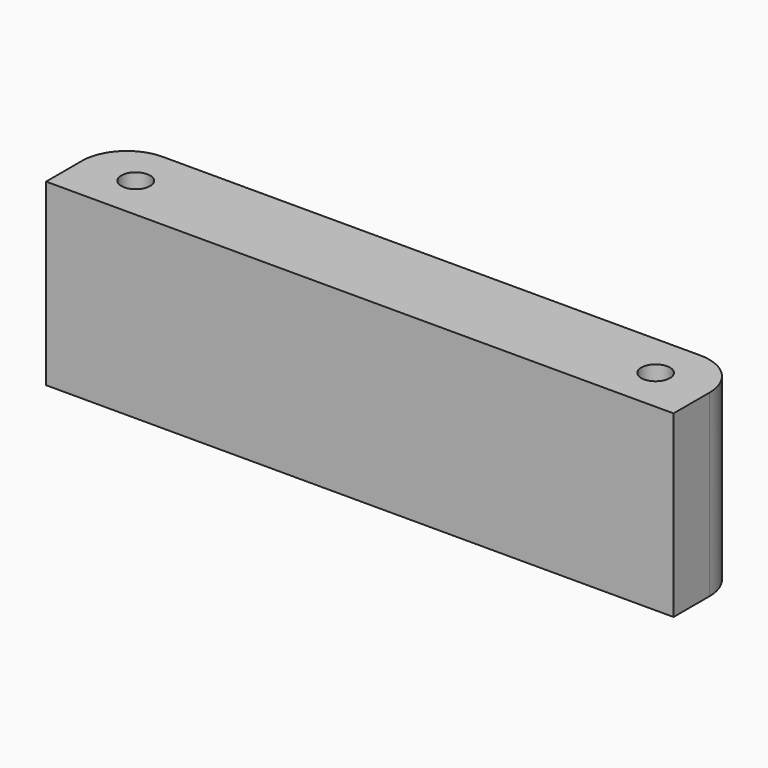
from build123d import *

# Parameters (mm, degrees)
F0_R     = 1.6
F1_DEPTH = 20
F2_R     = 5


with BuildPart() as f1:
    # F0 (on Top) → F1 (new body)
    with BuildSketch(Plane.XY):
        Polygon((24.721784, 5), (-33.278216, 5), (-39.278216, 5), (-39.278216, -5), (-33.278216, -5), (24.721784, -5), (30.721784, -5), (30.721784, 5), align=None)
        with Locations((-33.278216, 0)):
            Circle(F0_R, mode=Mode.SUBTRACT)
        with Locations((24.721784, 0)):
            Circle(F0_R, mode=Mode.SUBTRACT)
    extrude(amount=F1_DEPTH)

    # F2
    f2_edges = [f1.edges().sort_by_distance(p)[0] for p in [
        (-39.278216, 5, 10),
        (30.721784, 5, 10),
    ]]
    fillet(f2_edges, radius=F2_R)


solid = f1.part
